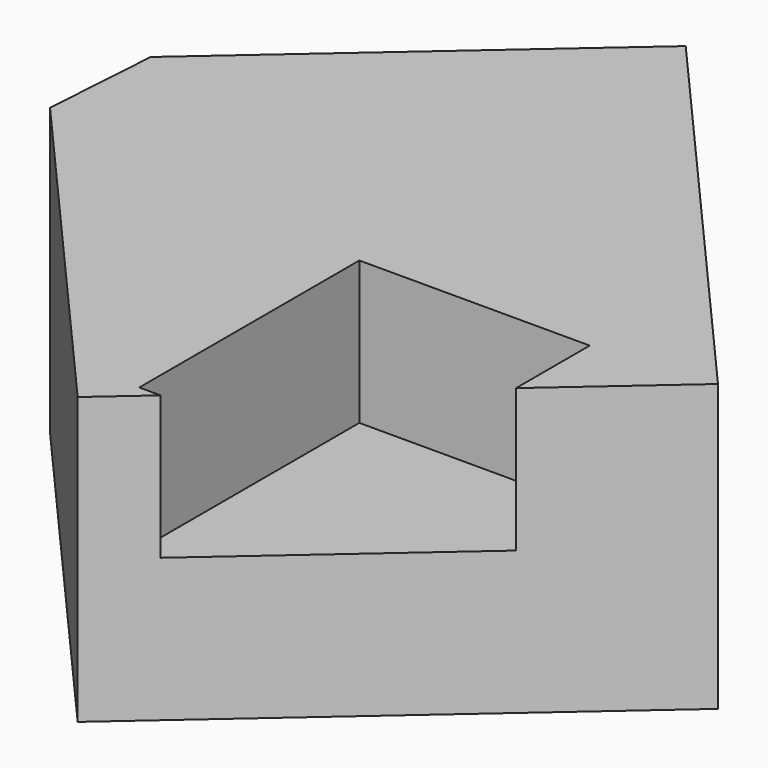
from build123d import *

# Parameters (mm, degrees)
F1_DEPTH = 50.8
F2_W     = 40.923903
F2_H     = 48.857377
F3_DEPTH = 25.4


with BuildPart() as f1:
    # F0 (on Top) → F1 (new body)
    with BuildSketch(Plane.XY):
        Polygon((0, 67.501426), (-55.901939, 18.58723), (-57.277205, -2.041763), (0, -67.501426), (66.904068, -8.960366), align=None)
    extrude(amount=F1_DEPTH)

    # F2 (on face) → F3 (cut)
    with BuildSketch(Plane.XY.offset(50.8)):
        with Locations((25.341062, -35.488515)):
            Rectangle(F2_W, F2_H)
    extrude(amount=-F3_DEPTH, mode=Mode.SUBTRACT)


solid = f1.part
